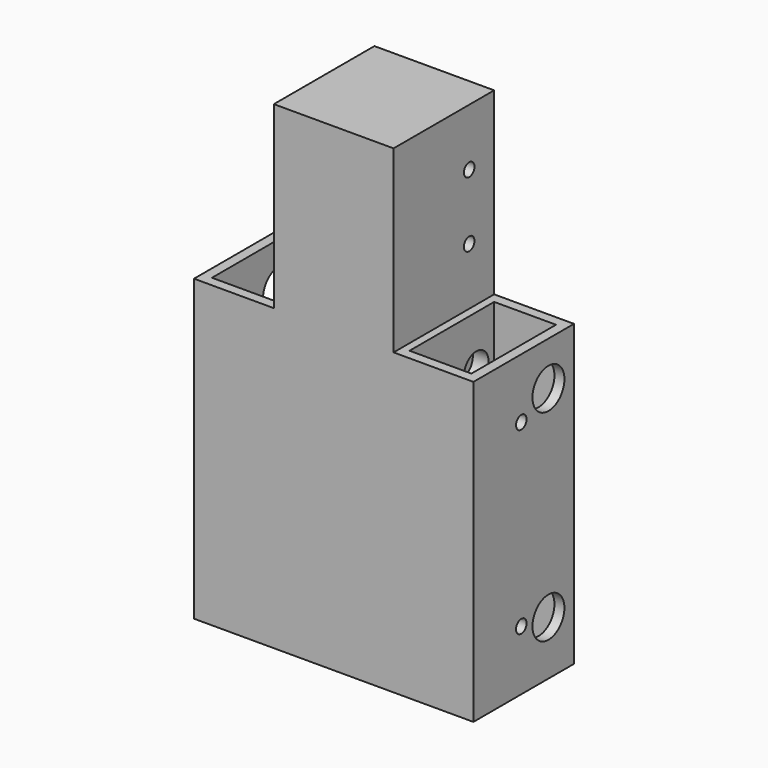
from build123d import *

# Parameters (mm, degrees)
F0_W            = 38.1
F0_H            = 152.4
F1_DEPTH        = 40.005
F3_W            = 40.005
F3_H            = 95.25
F4_DEPTH        = 25.4
F2_W            = 40.005
F2_H            = 95.25
F5_DEPTH        = 25.4
F7_W            = 19.685
F7_H            = 33.655
F8_DEPTH        = 95.25
F9_W            = 19.685
F9_H            = 33.655
F10_DEPTH       = 95.25
F12_D           = 4.2
F12_DEPTH       = 6.35
F12_TIP         = 1.2618073
F14_D           = 4.2
F14_DEPTH       = 6.35
F14_TIP         = 1.2618073
F15_R           = 6.35
F16_DEPTH       = 5.08
F18_D           = 4.2
F18_DEPTH       = 6.35
F18_CBORE_D     = 9.75
F18_CBORE_DEPTH = 5
F18_TIP         = 1.2618073
F19_R           = 2.0955
F20_DEPTH       = 3.175
F21_R           = 6.35
F22_DEPTH       = 5.08
F24_D           = 4.2
F24_DEPTH       = 6.35
F24_CBORE_D     = 9.75
F24_CBORE_DEPTH = 5
F24_TIP         = 1.2618073
F25_R           = 2.0955
F26_DEPTH       = 3.175
F27_R           = 6.35
F28_DEPTH       = 3.175
F29_R           = 2.0955
F30_DEPTH       = 3.175
F31_R           = 6.35
F31_R_2         = 2.0955
F32_DEPTH       = 3.175
F34_D           = 4.2
F34_DEPTH       = 6.35
F34_CBORE_D     = 9.75
F34_CBORE_DEPTH = 5
F34_TIP         = 1.2618073
F36_D           = 4.2
F36_DEPTH       = 6.35
F36_CBORE_D     = 9.75
F36_CBORE_DEPTH = 5
F36_TIP         = 1.2618073


with BuildPart() as f1:
    # F0 (on Front) → F1 (new body)
    with BuildSketch(Plane.XZ):
        with Locations((2.3773470894, 22.3614560891)):
            Rectangle(F0_W, F0_H)
    extrude(amount=F1_DEPTH)

    # F3 (on face) → F4 (join)
    with BuildSketch(Plane.YZ.offset(21.4273470894)):
        with Locations((-20.0025, -6.2135439109)):
            Rectangle(F3_W, F3_H)
    extrude(amount=F4_DEPTH)

    # F2 (on face) → F5 (join)
    with BuildSketch(Plane(origin=(-16.6726529106, 0, 0), x_dir=(0, -1, 0), z_dir=(-1, 0, 0))):
        with Locations((20.0025, -6.2135439109)):
            Rectangle(F2_W, F2_H)
    extrude(amount=F5_DEPTH)

    # F7 (on face) → F8 (cut, through all)
    with BuildSketch(Plane.XY.offset(41.4114560891)):
        with Locations((-29.0551529106, -20.0025)):
            Rectangle(F7_W, F7_H)
    extrude(amount=-F8_DEPTH, mode=Mode.SUBTRACT)

    # F9 (on face) → F10 (cut, through all)
    with BuildSketch(Plane.XY.offset(41.4114560891)):
        with Locations((33.8098470894, -20.0025)):
            Rectangle(F9_W, F9_H)
    extrude(amount=-F10_DEPTH, mode=Mode.SUBTRACT)

    # F12
    with Locations(Plane(origin=(-16.6726529106, 0, 0), x_dir=(0, -1, 0), z_dir=(-1, 0, 0))):
        with Locations((10.0076, 80.3750560891), (10.0076, 59.5978560891)):
            Hole(F12_D / 2, depth=F12_DEPTH)
            with Locations((0, 0, -(F12_DEPTH + F12_TIP / 2))):  # 118° drill point
                Cone(0, F12_D / 2, F12_TIP, mode=Mode.SUBTRACT)

    # F14
    with Locations(Plane.YZ.offset(21.4273470894)):
        with Locations((-9.9314, 80.3750560891), (-9.9314, 59.5978560891)):
            Hole(F14_D / 2, depth=F14_DEPTH)
            with Locations((0, 0, -(F14_DEPTH + F14_TIP / 2))):  # 118° drill point
                Cone(0, F14_D / 2, F14_TIP, mode=Mode.SUBTRACT)

    # F15 (on face) → F16 (cut)
    with BuildSketch(Plane(origin=(-42.0726529106, 0, 0), x_dir=(0, -1, 0), z_dir=(-1, 0, 0))):
        with Locations((10.16, 27.4571701884)):
            Circle(F15_R)
    extrude(amount=-F16_DEPTH, mode=Mode.SUBTRACT)

    # F18
    with Locations(Plane(origin=(-19.2126529106, 0, 0), x_dir=(0, -1, 0), z_dir=(-1, 0, 0))):
        with Locations((9.0175401419, 26.5703033656)):
            CounterBoreHole(F18_D / 2, F18_CBORE_D / 2, F18_CBORE_DEPTH, depth=F18_DEPTH)
            with Locations((0, 0, -(F18_DEPTH + F18_TIP / 2))):  # 118° drill point
                Cone(0, F18_D / 2, F18_TIP, mode=Mode.SUBTRACT)

    # F19 (on face) → F20 (cut, through all)
    with BuildSketch(Plane(origin=(-42.0726529106, 0, 0), x_dir=(0, -1, 0), z_dir=(-1, 0, 0))):
        with Locations((20.955, 20.2659560891)):
            Circle(F19_R)
    extrude(amount=-F20_DEPTH, mode=Mode.SUBTRACT)

    # F21 (on face) → F22 (cut)
    with BuildSketch(Plane(origin=(-42.0726529106, 0, 0), x_dir=(0, -1, 0), z_dir=(-1, 0, 0))):
        with Locations((10.16, -36.6098806262)):
            Circle(F21_R)
    extrude(amount=-F22_DEPTH, mode=Mode.SUBTRACT)

    # F24
    with Locations(Plane(origin=(-19.2126529106, 0, 0), x_dir=(0, -1, 0), z_dir=(-1, 0, 0))):
        with Locations((9.5567144454, -36.4443175495)):
            CounterBoreHole(F24_D / 2, F24_CBORE_D / 2, F24_CBORE_DEPTH, depth=F24_DEPTH)
            with Locations((0, 0, -(F24_DEPTH + F24_TIP / 2))):  # 118° drill point
                Cone(0, F24_D / 2, F24_TIP, mode=Mode.SUBTRACT)

    # F25 (on face) → F26 (cut, through all)
    with BuildSketch(Plane(origin=(-42.0726529106, 0, 0), x_dir=(0, -1, 0), z_dir=(-1, 0, 0))):
        with Locations((18.8595, -32.6930439109)):
            Circle(F25_R)
    extrude(amount=-F26_DEPTH, mode=Mode.SUBTRACT)

    # F27 (on face) → F28 (cut, through all)
    with BuildSketch(Plane.YZ.offset(46.8273470894)):
        with Locations((-10.16, 27.4668560891)):
            Circle(F27_R)
    extrude(amount=-F28_DEPTH, mode=Mode.SUBTRACT)

    # F29 (on face) → F30 (cut, through all)
    with BuildSketch(Plane.YZ.offset(46.8273470894)):
        with Locations((-20.955, 22.3614560891)):
            Circle(F29_R)
    extrude(amount=-F30_DEPTH, mode=Mode.SUBTRACT)

    # F31 (on face) → F32 (cut, through all)
    with BuildSketch(Plane.YZ.offset(46.8273470894)):
        with Locations((-10.16, -36.6173439109)):
            Circle(F31_R)
        with Locations((-20.955, -34.7885439109)):
            Circle(F31_R_2)
    extrude(amount=-F32_DEPTH, mode=Mode.SUBTRACT)

    # F34
    with Locations(Plane.YZ.offset(23.9673470894)):
        with Locations((-10.2667892352, 25.5894288421)):
            CounterBoreHole(F34_D / 2, F34_CBORE_D / 2, F34_CBORE_DEPTH, depth=F34_DEPTH)
            with Locations((0, 0, -(F34_DEPTH + F34_TIP / 2))):  # 118° drill point
                Cone(0, F34_D / 2, F34_TIP, mode=Mode.SUBTRACT)

    # F36
    with Locations(Plane.YZ.offset(23.9673470894)):
        with Locations((-10.3473309427, -36.7210023105)):
            CounterBoreHole(F36_D / 2, F36_CBORE_D / 2, F36_CBORE_DEPTH, depth=F36_DEPTH)
            with Locations((0, 0, -(F36_DEPTH + F36_TIP / 2))):  # 118° drill point
                Cone(0, F36_D / 2, F36_TIP, mode=Mode.SUBTRACT)


solid = f1.part
